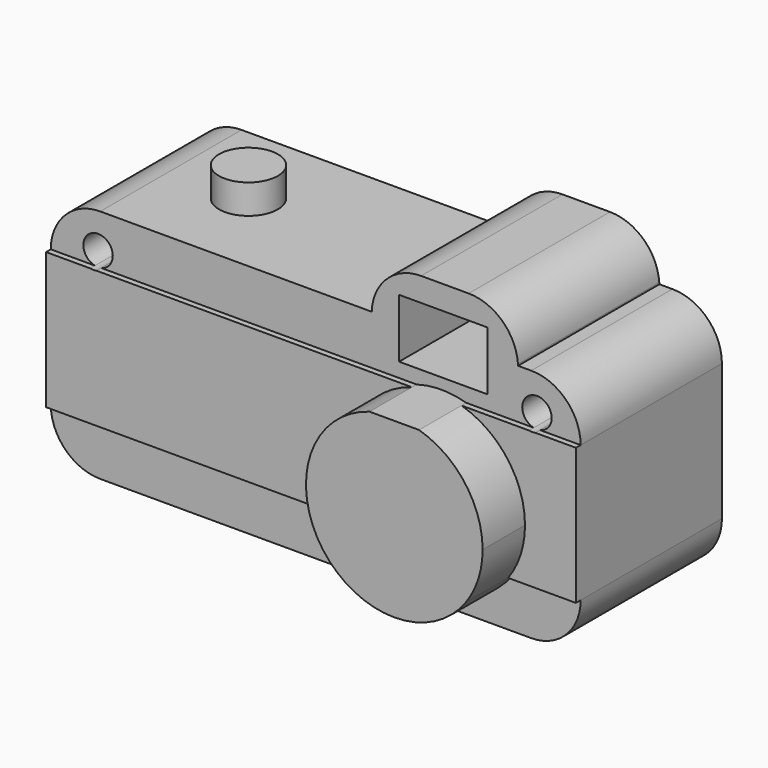
from build123d import *

# Parameters (mm, degrees)
F0_W     = 7.701499
F0_H     = 3.708132
F1_DEPTH = 38.1
F2_DEPTH = 50.8
F3_R     = 6.35
F4_DEPTH = 6.35
F5_DEPTH = 34.29
F6_DEPTH = 39.37
F7_DEPTH = 34.29
F8_DEPTH = 38.1
F9_DEPTH = 38.1


with BuildPart() as f1:
    # F0 (on Front) → F1 (new body)
    with BuildSketch(Plane.XZ):
        with BuildLine():
            Line((14.348516, 28.951926), (14.282982, 28.951926))
            Line((14.282982, 28.951926), (14.369692, 27.77123))
            ThreePointArc((14.369692, 27.77123), (14.342755, 28.361285), (14.348516, 28.951926))
        make_face()
        with BuildLine():
            Line((14.348516, 28.951926), (14.282982, 28.951926))
            Line((14.282982, 28.951926), (14.369692, 27.77123))
            ThreePointArc((14.369692, 27.77123), (14.342755, 28.361285), (14.348516, 28.951926))
        make_face()
        with BuildLine():
            Line((13.955504, -11.180074), (-54.883698, -11.180074))
            ThreePointArc((-54.883698, -11.180074), (-51.759113, -18.723489), (-44.215698, -21.848074))
            Line((-44.215698, -21.848074), (48.748302, -21.848074))
            ThreePointArc((48.748302, -21.848074), (56.291717, -18.723489), (59.416302, -11.180074))
            Line((59.416302, -11.180074), (44.804066, -11.180074))
            ThreePointArc((44.804066, -11.180074), (29.379785, -19.05), (13.955504, -11.180074))
        make_face()
        with BuildLine():
            Line((14.282982, 28.951926), (-44.215698, 28.951926))
            ThreePointArc((-44.215698, 28.951926), (-51.759113, 25.827341), (-54.883698, 18.283926))
            Line((-54.883698, 18.283926), (-45.363535, 18.283926))
            ThreePointArc((-45.363535, 18.283926), (-46.680146, 23.858607), (-41.513134, 21.386257))
            ThreePointArc((-41.513134, 21.386257), (-42.215785, 19.394245), (-44.012733, 18.283926))
            Line((-44.012733, 18.283926), (24.031837, 18.283926))
            ThreePointArc((24.031837, 18.283926), (29.379785, 19.05), (34.727733, 18.283926))
            Line((34.727733, 18.283926), (49.318015, 18.283926))
            ThreePointArc((49.318015, 18.283926), (48.001404, 23.858607), (53.168416, 21.386257))
            ThreePointArc((53.168416, 21.386257), (52.465766, 19.394245), (50.668818, 18.283926))
            Line((50.668818, 18.283926), (59.416302, 18.283926))
            ThreePointArc((59.416302, 18.283926), (56.291717, 25.827341), (48.748302, 28.951926))
            Line((48.748302, 28.951926), (45.923743, 28.951926))
            Line((45.923743, 28.951926), (39.302086, 28.951926))
            Line((39.302086, 28.951926), (39.302086, 21.386257))
            Line((39.302086, 21.386257), (20.252086, 21.386257))
            Line((20.252086, 21.386257), (20.252086, 28.951926))
            Line((20.252086, 28.951926), (14.348516, 28.951926))
            ThreePointArc((14.348516, 28.951926), (14.342755, 28.361285), (14.369692, 27.77123))
            Line((14.369692, 27.77123), (14.282982, 28.951926))
        make_face()
        with Locations((3.85075, 23.960214)):
            Rectangle(F0_W, F0_H, mode=Mode.SUBTRACT)
        with BuildLine():
            ThreePointArc((24.031837, 18.283926), (11.354714, 6.164358), (13.955504, -11.180074))
            ThreePointArc((13.955504, -11.180074), (29.379785, -19.05), (44.804066, -11.180074))
            ThreePointArc((44.804066, -11.180074), (47.500699, -5.876646), (48.429785, 0))
            ThreePointArc((48.429785, 0), (44.624143, 11.424187), (34.727733, 18.283926))
            Line((34.727733, 18.283926), (24.031837, 18.283926))
        make_face()
        with Locations((3.85075, 23.960214)):
            Rectangle(F0_W, F0_H)
    extrude(amount=F1_DEPTH)

    # F0 (on Front) → F5 (join)
    with BuildSketch(Plane.XZ):
        with Locations((3.85075, 23.960214)):
            Rectangle(F0_W, F0_H)
    extrude(amount=F5_DEPTH)

    # F0 (on Front) → F7 (join)
    with BuildSketch(Plane.XZ):
        with Locations((3.85075, 23.960214)):
            Rectangle(F0_W, F0_H)
    extrude(amount=F7_DEPTH)

    # F0 (on Front) → F8 (join)
    with BuildSketch(Plane.XZ):
        with Locations((3.85075, 23.960214)):
            Rectangle(F0_W, F0_H)
    extrude(amount=F8_DEPTH)

    # F0 (on Front) → F9 (join)
    with BuildSketch(Plane.XZ):
        with BuildLine():
            ThreePointArc((25.009039, 39.220588), (17.608158, 36.235894), (14.348516, 28.951926))
            Line((14.348516, 28.951926), (20.252086, 28.951926))
            Line((20.252086, 28.951926), (20.252086, 34.086257))
            Line((20.252086, 34.086257), (39.302086, 34.086257))
            Line((39.302086, 34.086257), (39.302086, 28.951926))
            Line((39.302086, 28.951926), (45.923743, 28.951926))
            Line((45.923743, 28.951926), (45.901395, 29.279252))
            ThreePointArc((45.901395, 29.279252), (42.540143, 36.348686), (35.258173, 39.220588))
            Line((35.258173, 39.220588), (25.009039, 39.220588))
        make_face()
    extrude(amount=F9_DEPTH)


with BuildPart() as f2:
    # F0 (on Front) → F2 (new body)
    with BuildSketch(Plane.XZ):
        with BuildLine():
            ThreePointArc((24.031837, 18.283926), (11.354714, 6.164358), (13.955504, -11.180074))
            ThreePointArc((13.955504, -11.180074), (29.379785, -19.05), (44.804066, -11.180074))
            ThreePointArc((44.804066, -11.180074), (47.500699, -5.876646), (48.429785, 0))
            ThreePointArc((48.429785, 0), (44.624143, 11.424187), (34.727733, 18.283926))
            Line((34.727733, 18.283926), (24.031837, 18.283926))
        make_face()
    extrude(amount=F2_DEPTH)


with BuildPart() as f4:
    # F3 (on face) → F4 (new body)
    with BuildSketch(Plane.XY.offset(28.951926)):
        with Locations((-27.665122, -18.819248)):
            Circle(F3_R)
    extrude(amount=F4_DEPTH)


with BuildPart() as f6:
    # F0 (on Front) → F6 (new body)
    with BuildSketch(Plane.XZ):
        with BuildLine():
            Line((-45.363535, 18.283926), (-54.883698, 18.283926))
            Line((-54.883698, 18.283926), (-54.883698, -11.180074))
            Line((-54.883698, -11.180074), (13.955504, -11.180074))
            ThreePointArc((13.955504, -11.180074), (11.354714, 6.164358), (24.031837, 18.283926))
            Line((24.031837, 18.283926), (-44.012733, 18.283926))
            ThreePointArc((-44.012733, 18.283926), (-44.688134, 18.211257), (-45.363535, 18.283926))
        make_face()
        with BuildLine():
            ThreePointArc((48.429785, 0), (47.500699, -5.876646), (44.804066, -11.180074))
            Line((44.804066, -11.180074), (59.416302, -11.180074))
            Line((59.416302, -11.180074), (59.416302, 18.283926))
            Line((59.416302, 18.283926), (50.668818, 18.283926))
            ThreePointArc((50.668818, 18.283926), (49.993416, 18.211257), (49.318015, 18.283926))
            Line((49.318015, 18.283926), (34.727733, 18.283926))
            ThreePointArc((34.727733, 18.283926), (44.624143, 11.424187), (48.429785, 0))
        make_face()
    extrude(amount=F6_DEPTH)


solid = Compound([f1.part, f2.part, f4.part, f6.part])
